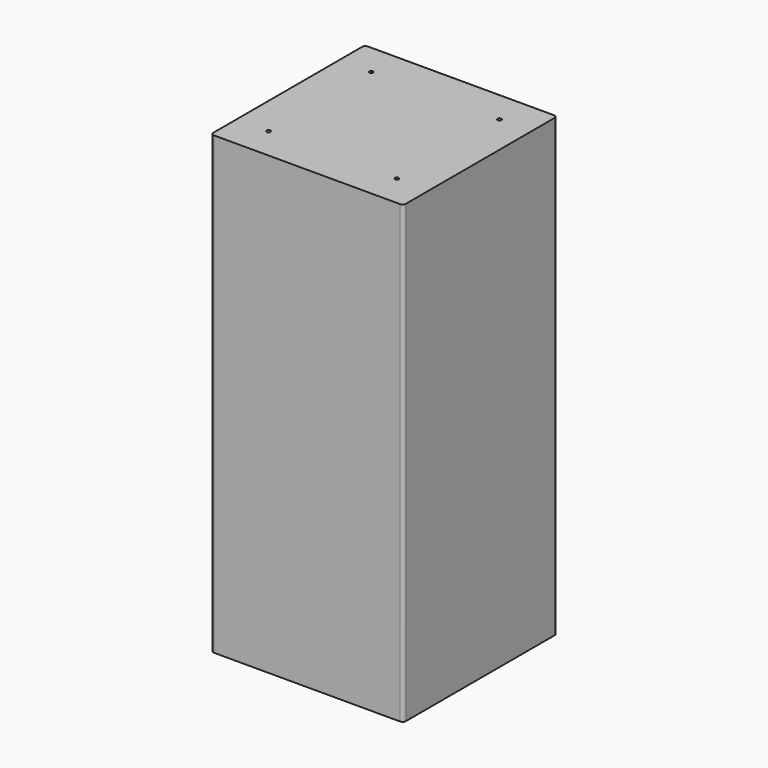
from build123d import *

# Parameters (mm, degrees)
F0_W     = 300
F0_H     = 300
F1_DEPTH = 710
F2_R     = 5
F4_D     = 6
F4_DEPTH = 40
F4_TIP   = 1.8025818571
F6_D     = 6
F6_DEPTH = 40
F6_TIP   = 1.8025818571


with BuildPart() as f1:
    # F0 (on Top) → F1 (new body)
    with BuildSketch(Plane.XY):
        with Locations((150, -150)):
            Rectangle(F0_W, F0_H)
    extrude(amount=F1_DEPTH)

    # F2
    f2_edges = [f1.edges().sort_by_distance(p)[0] for p in [
        (0, -300, 355),
        (0, 0, 355),
        (300, 0, 355),
        (300, -300, 355),
    ]]
    fillet(f2_edges, radius=F2_R)

    # F4
    with Locations(Plane.XY.offset(710)):
        with Locations((250, -250), (250, -50), (50, -250), (50, -50)):
            Hole(F4_D / 2, depth=F4_DEPTH)
            with Locations((0, 0, -(F4_DEPTH + F4_TIP / 2))):  # 118° drill point
                Cone(0, F4_D / 2, F4_TIP, mode=Mode.SUBTRACT)

    # F6
    with Locations(Plane(origin=(0, 0, 0), x_dir=(1, 0, 0), z_dir=(0, 0, -1))):
        with Locations((50, 250), (50, 50), (250, 50), (250, 250)):
            Hole(F6_D / 2, depth=F6_DEPTH)
            with Locations((0, 0, -(F6_DEPTH + F6_TIP / 2))):  # 118° drill point
                Cone(0, F6_D / 2, F6_TIP, mode=Mode.SUBTRACT)


solid = f1.part
